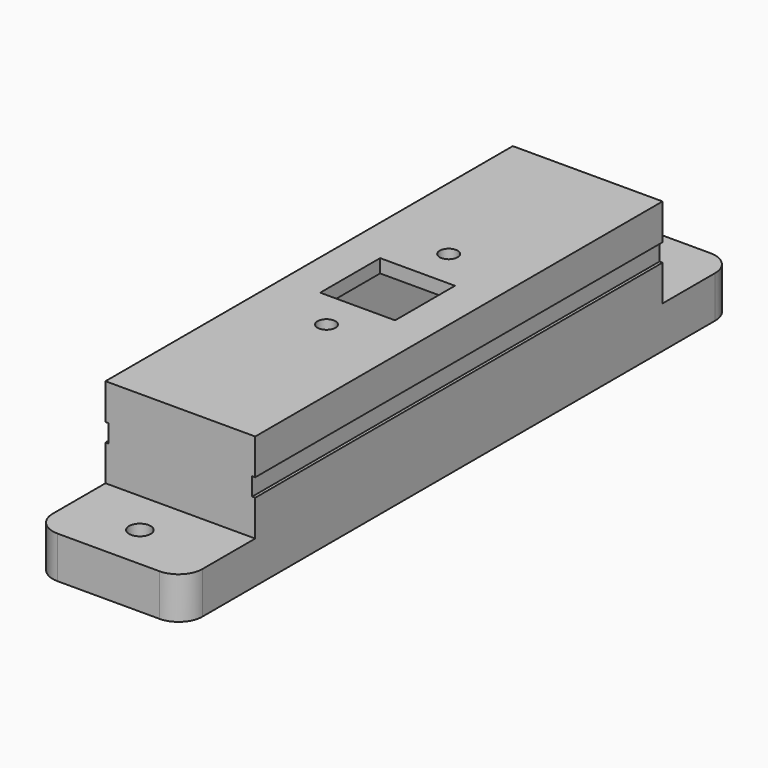
from build123d import *

# Parameters (mm, degrees)
SKETCH019_W     = 25
SKETCH019_H     = 115
PAD002_DEPTH    = 7
SKETCH020_W     = 25
SKETCH020_H     = 85
PAD003_DEPTH    = 15
SKETCH021_W     = 12.5
SKETCH021_H     = 12.5
POCKET017_DEPTH = 22.001
SKETCH022_R     = 1.5
POCKET018_DEPTH = 22.001
SKETCH023_W     = 16
SKETCH023_H     = 80
POCKET019_DEPTH = 19.75
SKETCH024_W     = 1
SKETCH024_H     = 3
POCKET020_DEPTH = 100.001
SKETCH025_R     = 1.8
POCKET021_DEPTH = 22.001
SKETCH026_R     = 3.6
POCKET022_DEPTH = 3
FILLET004_R     = 4


with BuildPart() as part:
    # Sketch019 → Pad002 (new body)
    with BuildSketch(Plane.XY):
        with Locations((-91.75, 57.5)):
            Rectangle(SKETCH019_W, SKETCH019_H)
    extrude(amount=PAD002_DEPTH)

    # Sketch020 → Pad003 (new body)
    with BuildSketch(Plane.XY.offset(7)):
        with Locations((-91.75, 57.5)):
            Rectangle(SKETCH020_W, SKETCH020_H)
    extrude(amount=PAD003_DEPTH)

    # Sketch021 → Pocket017 (cut, through all)
    with BuildSketch(Plane.XY.offset(22)):
        with Locations((-91.75, 58.25)):
            Rectangle(SKETCH021_W, SKETCH021_H)
    extrude(amount=-POCKET017_DEPTH, mode=Mode.SUBTRACT)

    # Sketch022 → Pocket018 (cut, through all)
    with BuildSketch(Plane.XY.offset(22)):
        with Locations((-91.75, 71)):
            Circle(SKETCH022_R)
        with Locations((-91.75, 45.5)):
            Circle(SKETCH022_R)
    extrude(amount=-POCKET018_DEPTH, mode=Mode.SUBTRACT)

    # Sketch023 → Pocket019 (cut)
    with BuildSketch(Plane(origin=(0, 0, 0), x_dir=(1, 0, 0), z_dir=(0, 0, -1))):
        with Locations((-91.75, -57.5)):
            Rectangle(SKETCH023_W, SKETCH023_H)
    extrude(amount=-POCKET019_DEPTH, mode=Mode.SUBTRACT)

    # Sketch024 → Pocket020 (cut, through all)
    with BuildSketch(Plane.XZ.offset(-15)):
        with Locations((-104.25, 14.5)):
            Rectangle(SKETCH024_W, SKETCH024_H)
        with Locations((-79.25, 14.5)):
            Rectangle(SKETCH024_W, SKETCH024_H)
    extrude(amount=-POCKET020_DEPTH, mode=Mode.SUBTRACT)

    # Sketch025 → Pocket021 (cut, through all)
    with BuildSketch(Plane(origin=(0, 0, 0), x_dir=(1, 0, 0), z_dir=(0, 0, -1))):
        with Locations((-92.5, -107.5)):
            Circle(SKETCH025_R)
        with Locations((-92.5, -7.5)):
            Circle(SKETCH025_R)
    extrude(amount=-POCKET021_DEPTH, mode=Mode.SUBTRACT)

    # Sketch026 → Pocket022 (cut)
    with BuildSketch(Plane(origin=(0, 0, 0), x_dir=(1, 0, 0), z_dir=(0, 0, -1))):
        with Locations((-92.5, -7.5)):
            Circle(SKETCH026_R)
        with Locations((-92.5, -107.5)):
            Circle(SKETCH026_R)
    extrude(amount=-POCKET022_DEPTH, mode=Mode.SUBTRACT)

    # Fillet004
    fillet004_edges = [part.edges().sort_by_distance(p)[0] for p in [
        (-104.25, 115, 3.5),
        (-79.25, 115, 3.5),
        (-79.25, 0, 3.5),
        (-104.25, 0, 3.5),
    ]]
    fillet(fillet004_edges, radius=FILLET004_R)


solid = part.part
